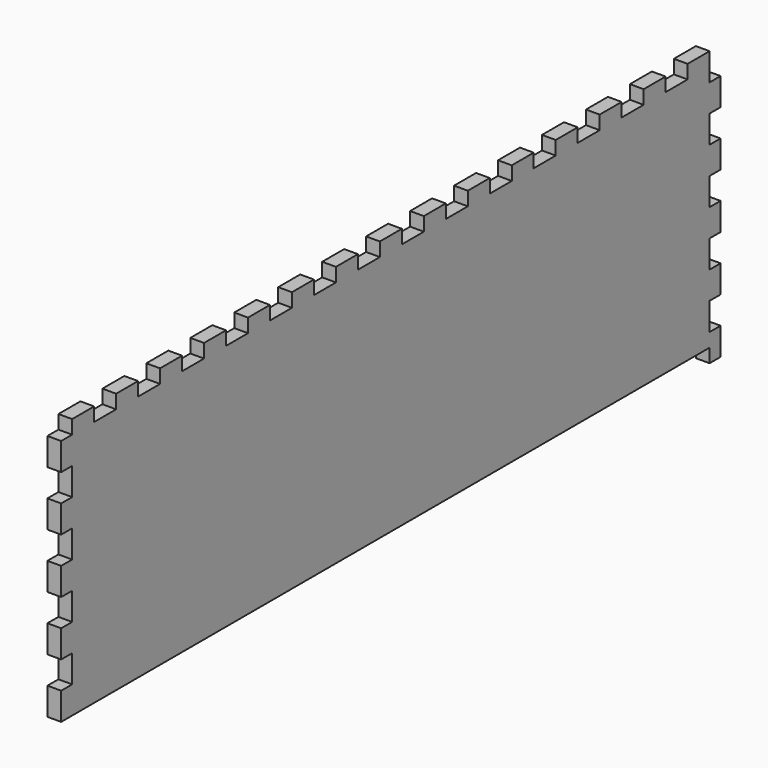
from build123d import *

# Parameters (mm, degrees)
SKETCH052_W             = 90
SKETCH052_H             = 290
PAD036_DEPTH            = 5
SKETCH063_W             = 10
SKETCH063_H             = 5
PAD044_DEPTH            = 5
LINEARPATTERN038_COUNT  = 15
LINEARPATTERN038_PITCH  = 20
SKETCH064_W             = 10
SKETCH064_H             = 5
PAD045_DEPTH            = 5
LINEARPATTERN039_COUNT  = 5
LINEARPATTERN039_PITCH  = 20
SKETCH065_W             = 10
SKETCH065_H             = 5
PAD046_DEPTH            = 5
LINEARPATTERN040_COUNT  = 5
LINEARPATTERN040_PITCH  = 20
BODY015_PLACEMENT_ANGLE = 90


with BuildPart() as part:
    # Sketch052 → Pad036 (new body)
    with BuildSketch(Plane.XY):
        Rectangle(SKETCH052_W, SKETCH052_H)
    extrude(amount=PAD036_DEPTH)

    # Sketch063 (on DatumPlane) → Pad044 (join)
    with BuildSketch(Plane.YZ.offset(45)):
        with Locations((-140, 2.5)):
            Rectangle(SKETCH063_W, SKETCH063_H)
    pad044 = extrude(amount=PAD044_DEPTH)

    # LinearPattern038: Pad044 ×15
    with Locations(*[(0, i * LINEARPATTERN038_PITCH, 0) for i in range(1, LINEARPATTERN038_COUNT)]):
        add(pad044)

    # Sketch064 (on DatumPlane) → Pad045 (join)
    with BuildSketch(Plane(origin=(0, 145, 0), x_dir=(-1, 0, 0), z_dir=(0, 1, 0))):
        with Locations((-35, 2.5)):
            Rectangle(SKETCH064_W, SKETCH064_H)
    pad045 = extrude(amount=PAD045_DEPTH)

    # LinearPattern039: Pad045 ×5
    with Locations(*[(-i * LINEARPATTERN039_PITCH, 0, 0) for i in range(1, LINEARPATTERN039_COUNT)]):
        add(pad045)

    # Sketch065 (on DatumPlane) → Pad046 (join)
    with BuildSketch(Plane.XZ.offset(145)):
        with Locations((-40, 2.5)):
            Rectangle(SKETCH065_W, SKETCH065_H)
    pad046 = extrude(amount=PAD046_DEPTH)

    # LinearPattern040: Pad046 ×5
    with Locations(*[(i * LINEARPATTERN040_PITCH, 0, 0) for i in range(1, LINEARPATTERN040_COUNT)]):
        add(pad046)


with BuildPart() as part_1:
    # Body015 placement: moved
    add(part.part.moved(Location((5, 0, 155))).rotate(Axis((5, 0, 155), (0, -1, 0)), BODY015_PLACEMENT_ANGLE))


solid = part_1.part
